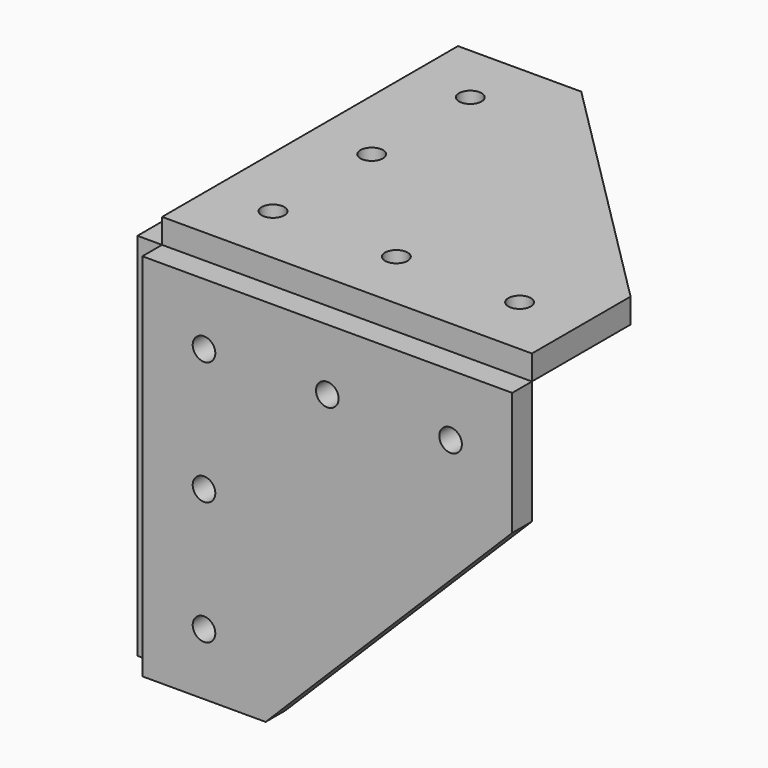
from build123d import *

# Parameters (mm, degrees)
F0_R     = 2.75
F1_DEPTH = 6
F4_COUNT = 3


with BuildPart() as f1:
    # F0 (on Top) → F1 (new body)
    with BuildSketch(Plane.XY):
        Polygon((75, 15), (15, 75), (-15, 75), (-15, -15), (75, -15), align=None)
        Circle(F0_R, mode=Mode.SUBTRACT)
        with Locations((30, 0)):
            Circle(F0_R, mode=Mode.SUBTRACT)
        with Locations((60, 0)):
            Circle(F0_R, mode=Mode.SUBTRACT)
        with Locations((0, 30)):
            Circle(F0_R, mode=Mode.SUBTRACT)
        with Locations((0, 60)):
            Circle(F0_R, mode=Mode.SUBTRACT)
    extrude(amount=F1_DEPTH)


with BuildPart() as f4_1:
    # F4: instance of F1
    add(f1.part.rotate(Axis((-22.71050193, -22.71050193, 7.7106761609), (-0.5773459205, -0.5773459205, 0.5773589665)), 1 * 360 / F4_COUNT))


with BuildPart() as f4_2:
    # F4: instance of F1
    add(f1.part.rotate(Axis((-22.71050193, -22.71050193, 7.7106761609), (-0.5773459205, -0.5773459205, 0.5773589665)), 2 * 360 / F4_COUNT))


solid = Compound([f1.part, f4_1.part, f4_2.part])
